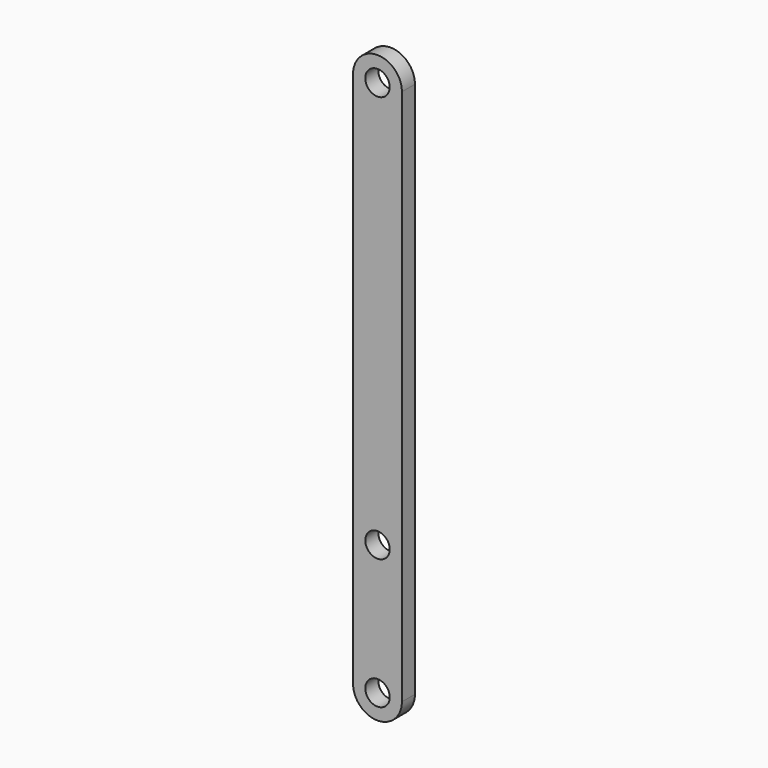
from build123d import *

# Parameters (mm, degrees)
F0_R     = 1.5
F1_DEPTH = 2


with BuildPart() as f1:
    # F0 (on Front) → F1 (new body)
    with BuildSketch(Plane.XZ):
        with BuildLine():
            Line((3, -41), (3, -25))
            Line((3, -25), (3, 25))
            ThreePointArc((3, 25), (0, 28), (-3, 25))
            Line((-3, 25), (-3, -25))
            Line((-3, -25), (-3, -41))
            ThreePointArc((-3, -41), (0, -44), (3, -41))
        make_face()
        with Locations((0, -41)):
            Circle(F0_R, mode=Mode.SUBTRACT)
        with Locations((0, -25)):
            Circle(F0_R, mode=Mode.SUBTRACT)
        with Locations((0, 25)):
            Circle(F0_R, mode=Mode.SUBTRACT)
    extrude(amount=F1_DEPTH)


solid = f1.part
